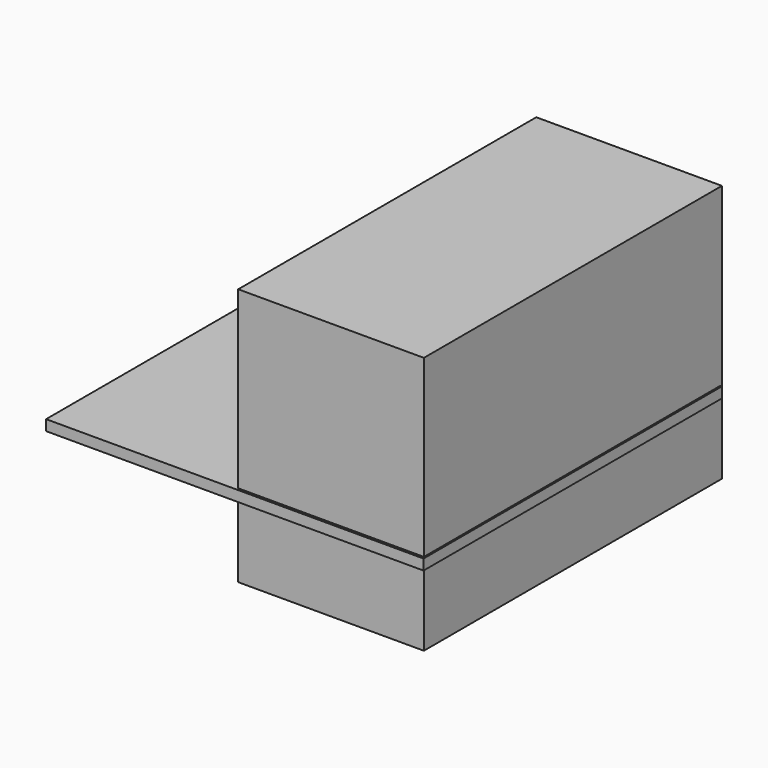
from build123d import *

# Parameters (mm, degrees)
F0_W     = 154.1122123599
F0_H     = 152.2873193026
F1_DEPTH = 4.3168757111
F2_W     = 152.1053090692
F2_H     = 75.8531913161
F3_DEPTH = 25.4
F4_DEPTH = 105.2890252322
F5_DEPTH = 75.802506879


with BuildPart() as f1:
    # F0 (on Top) → F1 (new body)
    with BuildSketch(Plane.XY):
        with Locations((-0.5999542773, -0.8949711919)):
            Rectangle(F0_W, F0_H)
    extrude(amount=F1_DEPTH)

    # F2 (on Right) → F3 (join)
    with BuildSketch(Plane.YZ):
        with Locations((0.0062547624, 37.9265956581)):
            Rectangle(F2_W, F2_H)
    extrude(amount=F3_DEPTH)

    # F4 (add): a face of the model
    f4_faces = [f1.faces().sort_by_distance(p)[0] for p in [
        (12.7, 0.0062547624, 75.8531913161),
    ]]
    extrude(f4_faces, amount=-F4_DEPTH)

    # F5 (add): a face of the model
    f5_faces = [f1.faces().sort_by_distance(p)[0] for p in [
        (0, 0.0234783223, 24.1036447815),
    ]]
    extrude(f5_faces, amount=-F5_DEPTH)


solid = f1.part
